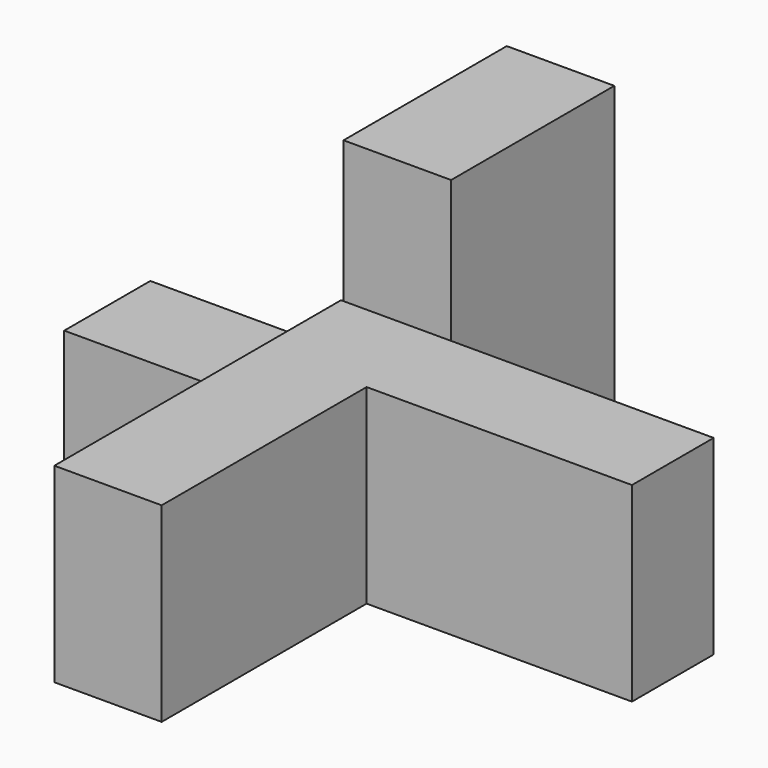
from build123d import *

# Parameters (mm, degrees)
F0_W     = 14.2970732413
F0_H     = 34.1241974384
F0_H_2   = 13.6066358536
F0_W_2   = 35.348333884
F1_DEPTH = 12.7
F2_W     = 14.3289165571
F2_H     = 43.9045364037
F3_DEPTH = 27.178
F4_W     = 14.3301561475
F4_H     = 19.4006666213
F5_DEPTH = 25.4


with BuildPart() as f1:
    # F0 (on Top) → F1 (new body, symmetric)
    with BuildSketch(Plane.XY):
        with Locations((-13.6043701787, -30.6687345728)):
            Rectangle(F0_W, F0_H)
        with Locations((-13.6043701787, -6.8033179268)):
            Rectangle(F0_W, F0_H_2)
        with Locations((11.218333384, -6.8033179268)):
            Rectangle(F0_W_2, F0_H_2)
    extrude(amount=F1_DEPTH, both=True)

    # F2 (on Front) → F3 (join)
    with BuildSketch(Plane.XZ):
        with Locations((-13.2477167062, 9.6126752906)):
            Rectangle(F2_W, F2_H)
    extrude(amount=-F3_DEPTH)

    # F4 (on face) → F5 (join)
    with BuildSketch(Plane(origin=(-20.7529067993, 0, 0), x_dir=(0, -1, 0), z_dir=(-1, 0, 0))):
        with Locations((7.1650780737, -2.9996666893)):
            Rectangle(F4_W, F4_H)
    extrude(amount=F5_DEPTH)


solid = f1.part
